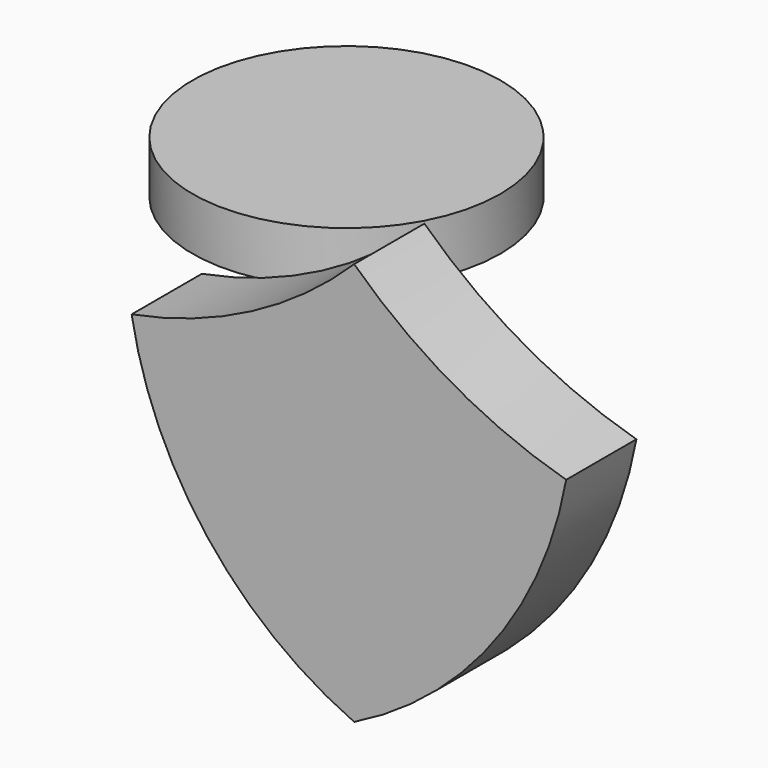
from build123d import *

# Parameters (mm, degrees)
F1_DEPTH = 12.7
F2_R     = 22.280742
F3_DEPTH = 7.62


with BuildPart() as f1:
    # F0 (on Front) → F1 (new body)
    with BuildSketch(Plane.XZ):
        with BuildLine():
            ThreePointArc((0, 34.763172), (-14.847709, 23.93392), (-32.204406, 17.894694))
            ThreePointArc((-32.204406, 17.894694), (-21.289972, -6.859974), (0, -23.552952))
            ThreePointArc((0, -23.552952), (20.187463, -6.78629), (30.676963, 17.268335))
            ThreePointArc((30.676963, 17.268335), (14.26725, 24.137364), (0, 34.763172))
        make_face()
    extrude(amount=F1_DEPTH)


with BuildPart() as f3:
    # F2 (on Top) → F3 (new body)
    with BuildSketch(Plane.XY):
        with Locations((-52.670673, 51.743921)):
            Circle(F2_R)
    extrude(amount=F3_DEPTH)


solid = Compound([f1.part, f3.part])
